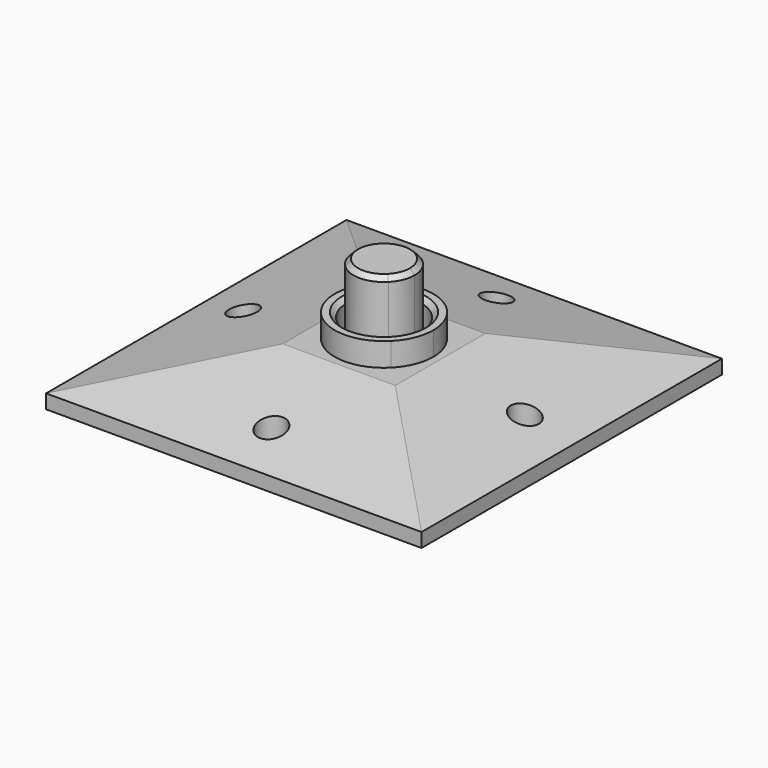
from build123d import *

# Parameters (mm, degrees)
F0_R     = 3
F1_DEPTH = 10
F2_DEPTH = 15
F3_DEPTH = 5
F4_DEPTH = 25
F7_DEPTH = 80
F8_DEPTH = 80
F9_SIZE  = 1


with BuildPart() as f1:
    # F0 (on Top) → F1 (new body)
    with BuildSketch(Plane.XY):
        with BuildLine():
            ThreePointArc((-7.4246212025, 7.4246212025), (0, 10.5), (7.4246212025, 7.4246212025))
            Line((7.4246212025, 7.4246212025), (40, 40))
            Line((40, 40), (-40, 40))
            Line((-40, 40), (-7.4246212025, 7.4246212025))
        make_face()
        with Locations((0, 30)):
            Circle(F0_R, mode=Mode.SUBTRACT)
        with BuildLine():
            Line((40, 40), (7.4246212025, 7.4246212025))
            ThreePointArc((7.4246212025, 7.4246212025), (9.7007350914, 4.0181760398), (10.5, 0))
            ThreePointArc((10.5, 0), (9.7007350914, -4.0181760398), (7.4246212025, -7.4246212025))
            Line((7.4246212025, -7.4246212025), (40, -40))
            Line((40, -40), (40, 40))
        make_face()
        with Locations((30, 0)):
            Circle(F0_R, mode=Mode.SUBTRACT)
        with BuildLine():
            Line((40, -40), (7.4246212025, -7.4246212025))
            ThreePointArc((7.4246212025, -7.4246212025), (0, -10.5), (-7.4246212025, -7.4246212025))
            Line((-7.4246212025, -7.4246212025), (-40, -40))
            Line((-40, -40), (40, -40))
        make_face()
        with Locations((0, -30)):
            Circle(F0_R, mode=Mode.SUBTRACT)
        with BuildLine():
            ThreePointArc((-7.4246212025, -7.4246212025), (-10.5, 0), (-7.4246212025, 7.4246212025))
            Line((-7.4246212025, 7.4246212025), (-40, 40))
            Line((-40, 40), (-40, -40))
            Line((-40, -40), (-7.4246212025, -7.4246212025))
        make_face()
        with Locations((-30, 0)):
            Circle(F0_R, mode=Mode.SUBTRACT)
    extrude(amount=F1_DEPTH)

    # F0 (on Top) → F2 (join)
    with BuildSketch(Plane.XY):
        with BuildLine():
            ThreePointArc((-5.6568542495, 5.6568542495), (0, 8), (5.6568542495, 5.6568542495))
            Line((5.6568542495, 5.6568542495), (7.4246212025, 7.4246212025))
            ThreePointArc((7.4246212025, 7.4246212025), (0, 10.5), (-7.4246212025, 7.4246212025))
            Line((-7.4246212025, 7.4246212025), (-5.6568542495, 5.6568542495))
        make_face()
        with BuildLine():
            Line((7.4246212025, 7.4246212025), (5.6568542495, 5.6568542495))
            ThreePointArc((5.6568542495, 5.6568542495), (7.3910362601, 3.0614674589), (8, 0))
            ThreePointArc((8, 0), (7.3910362601, -3.0614674589), (5.6568542495, -5.6568542495))
            Line((5.6568542495, -5.6568542495), (7.4246212025, -7.4246212025))
            ThreePointArc((7.4246212025, -7.4246212025), (9.7007350914, -4.0181760398), (10.5, 0))
            ThreePointArc((10.5, 0), (9.7007350914, 4.0181760398), (7.4246212025, 7.4246212025))
        make_face()
        with BuildLine():
            Line((7.4246212025, -7.4246212025), (5.6568542495, -5.6568542495))
            ThreePointArc((5.6568542495, -5.6568542495), (0, -8), (-5.6568542495, -5.6568542495))
            Line((-5.6568542495, -5.6568542495), (-7.4246212025, -7.4246212025))
            ThreePointArc((-7.4246212025, -7.4246212025), (0, -10.5), (7.4246212025, -7.4246212025))
        make_face()
        with BuildLine():
            ThreePointArc((-5.6568542495, -5.6568542495), (-8, 0), (-5.6568542495, 5.6568542495))
            Line((-5.6568542495, 5.6568542495), (-7.4246212025, 7.4246212025))
            ThreePointArc((-7.4246212025, 7.4246212025), (-10.5, 0), (-7.4246212025, -7.4246212025))
            Line((-7.4246212025, -7.4246212025), (-5.6568542495, -5.6568542495))
        make_face()
    extrude(amount=F2_DEPTH)

    # F0 (on Top) → F3 (join)
    with BuildSketch(Plane.XY):
        with BuildLine():
            ThreePointArc((4.5961940777, 4.5961940777), (6.0052169613, 2.4874423104), (6.5, 0))
            ThreePointArc((6.5, 0), (6.0052169613, -2.4874423104), (4.5961940777, -4.5961940777))
            Line((4.5961940777, -4.5961940777), (5.6568542495, -5.6568542495))
            ThreePointArc((5.6568542495, -5.6568542495), (7.3910362601, -3.0614674589), (8, 0))
            ThreePointArc((8, 0), (7.3910362601, 3.0614674589), (5.6568542495, 5.6568542495))
            Line((5.6568542495, 5.6568542495), (4.5961940777, 4.5961940777))
        make_face()
        with BuildLine():
            Line((5.6568542495, -5.6568542495), (4.5961940777, -4.5961940777))
            ThreePointArc((4.5961940777, -4.5961940777), (0, -6.5), (-4.5961940777, -4.5961940777))
            Line((-4.5961940777, -4.5961940777), (-5.6568542495, -5.6568542495))
            ThreePointArc((-5.6568542495, -5.6568542495), (0, -8), (5.6568542495, -5.6568542495))
        make_face()
        with BuildLine():
            ThreePointArc((-4.5961940777, 4.5961940777), (0, 6.5), (4.5961940777, 4.5961940777))
            Line((4.5961940777, 4.5961940777), (5.6568542495, 5.6568542495))
            ThreePointArc((5.6568542495, 5.6568542495), (0, 8), (-5.6568542495, 5.6568542495))
            Line((-5.6568542495, 5.6568542495), (-4.5961940777, 4.5961940777))
        make_face()
        with BuildLine():
            ThreePointArc((-4.5961940777, -4.5961940777), (-6.5, 0), (-4.5961940777, 4.5961940777))
            Line((-4.5961940777, 4.5961940777), (-5.6568542495, 5.6568542495))
            ThreePointArc((-5.6568542495, 5.6568542495), (-8, 0), (-5.6568542495, -5.6568542495))
            Line((-5.6568542495, -5.6568542495), (-4.5961940777, -4.5961940777))
        make_face()
    extrude(amount=F3_DEPTH)

    # F0 (on Top) → F4 (join)
    with BuildSketch(Plane.XY):
        with BuildLine():
            ThreePointArc((4.5961940777, -4.5961940777), (6.0052169613, -2.4874423104), (6.5, 0))
            ThreePointArc((6.5, 0), (6.0052169613, 2.4874423104), (4.5961940777, 4.5961940777))
            Line((4.5961940777, 4.5961940777), (0, 0))
            Line((0, 0), (4.5961940777, -4.5961940777))
        make_face()
        with BuildLine():
            ThreePointArc((-4.5961940777, -4.5961940777), (0, -6.5), (4.5961940777, -4.5961940777))
            Line((4.5961940777, -4.5961940777), (0, 0))
            Line((0, 0), (-4.5961940777, -4.5961940777))
        make_face()
        with BuildLine():
            Line((0, 0), (-4.5961940777, 4.5961940777))
            ThreePointArc((-4.5961940777, 4.5961940777), (-6.5, 0), (-4.5961940777, -4.5961940777))
            Line((-4.5961940777, -4.5961940777), (0, 0))
        make_face()
        with BuildLine():
            Line((0, 0), (4.5961940777, 4.5961940777))
            ThreePointArc((4.5961940777, 4.5961940777), (0, 6.5), (-4.5961940777, 4.5961940777))
            Line((-4.5961940777, 4.5961940777), (0, 0))
        make_face()
    extrude(amount=F4_DEPTH)

    # F5 (on face) → F7 (cut)
    with BuildSketch(Plane.XZ.offset(40)):
        Polygon((-40, 3), (-12, 10), (-40, 10), align=None)
        Polygon((40, 10), (12, 10), (40, 3), align=None)
    extrude(amount=-F7_DEPTH, mode=Mode.SUBTRACT)

    # F6 (on face) → F8 (cut)
    with BuildSketch(Plane(origin=(-40, 0, 0), x_dir=(0, -1, 0), z_dir=(-1, 0, 0))):
        Polygon((-40, 3), (-12, 10), (-40, 10), align=None)
        Polygon((40, 10), (12, 10), (40, 3), align=None)
    extrude(amount=-F8_DEPTH, mode=Mode.SUBTRACT)

    # F9
    f9_edges = [f1.edges().sort_by_distance(p)[0] for p in [
        (5.656854, 5.656854, 15),
        (-4.596194, -4.596194, 25),
    ]]
    chamfer(f9_edges, length=F9_SIZE)


solid = f1.part
